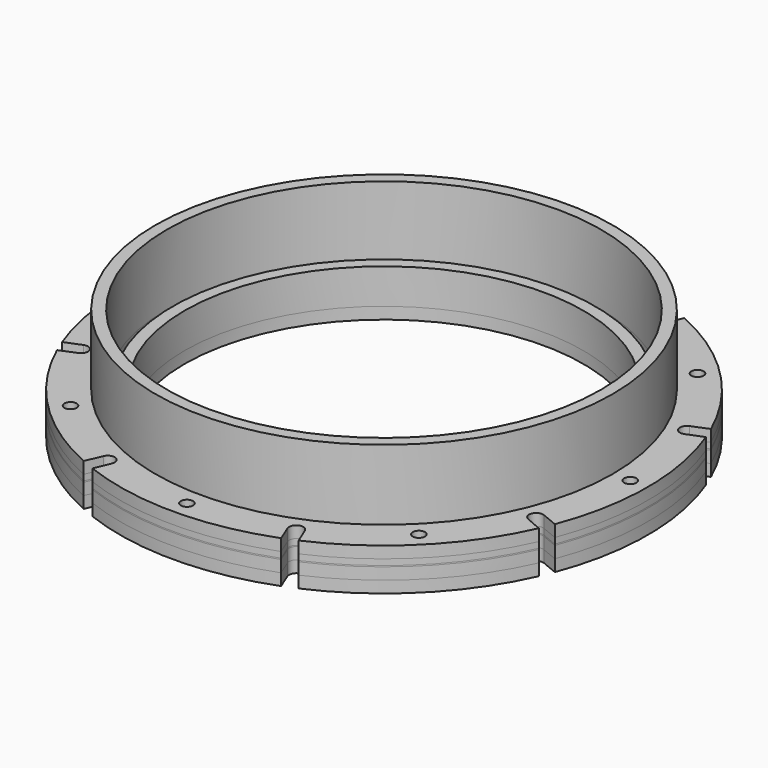
from build123d import *

# Parameters (mm, degrees)
F0_R      = 112.5
F0_R_2    = 92.5
F1_DEPTH  = 5
F2_R      = 97.5
F2_R_2    = 92.5
F3_DEPTH  = 30
F4_DEPTH  = 2.5
F5_DEPTH  = 0.5
F6_DEPTH  = 5
F7_R      = 112.5
F7_R_2    = 92.5
F7_R_3    = 85
F8_DEPTH  = 5
F10_D     = 5.2
F10_2_D   = 5.2
F10_3_D   = 5.2
F11_D     = 4.2
F13_DEPTH = 18.001
F14_R     = 90
F14_R_2   = 85
F15_DEPTH = 15


with BuildPart() as f1:
    # F0 (on Top) → F1 (new body)
    with BuildSketch(Plane.XY):
        Circle(F0_R)
        Circle(F0_R_2, mode=Mode.SUBTRACT)
    extrude(amount=F1_DEPTH)


with BuildPart() as f3:
    # F2 (on face) → F3 (new body)
    with BuildSketch(Plane.XY.offset(5)):
        Circle(F2_R)
        Circle(F2_R_2, mode=Mode.SUBTRACT)
    extrude(amount=F3_DEPTH)


with BuildPart() as f4:
    # F4 (new): a face of the model
    f4_faces = [f1.part.faces().sort_by_distance(p)[0] for p in [
        (-109.3180194847, 0, 0),
    ]]
    extrude(f4_faces, amount=F4_DEPTH)


with BuildPart() as f5:
    # F5 (new): a face of the model
    f5_faces = [f4.part.faces().sort_by_distance(p)[0] for p in [
        (-109.3180194847, 0, -2.5),
    ]]
    extrude(f5_faces, amount=F5_DEPTH)


with BuildPart() as f6:
    # F6 (new): a face of the model
    f6_faces = [f5.part.faces().sort_by_distance(p)[0] for p in [
        (-109.3180194847, 0, -3),
    ]]
    extrude(f6_faces, amount=F6_DEPTH)

    # F11 (through all)
    with Locations(Plane.XY.offset(5)):
        with Locations((-105, 0), (-74.2462120246, 74.2462120246), (0, 105), (74.2462120246, 74.2462120246), (105, 0), (74.2462120246, -74.2462120246), (0, -105), (-74.2462120246, -74.2462120246)):
            Hole(F11_D / 2)


with BuildPart() as f8:
    # F7 (on face) → F8 (new body)
    with BuildSketch(Plane(origin=(0, 0, -8), x_dir=(1, 0, 0), z_dir=(0, 0, -1))):
        Circle(F7_R)
        Circle(F7_R_2, mode=Mode.SUBTRACT)
        Circle(F7_R_2)
        Circle(F7_R_3, mode=Mode.SUBTRACT)
    extrude(amount=F8_DEPTH)


with BuildPart() as f1_1:
    add(f1.part)

    # F10 (through all)
    with Locations(Plane.XY.offset(5)):
        with Locations((0, -105), (-74.2462120246, -74.2462120246), (-105, 0), (-74.2462120246, 74.2462120246), (0, 105), (74.2462120246, 74.2462120246), (105, 0), (74.2462120246, -74.2462120246)):
            Hole(F10_D / 2)


with BuildPart() as f4_1:
    add(f4.part)

    # F10#2 (through all)
    with Locations(Plane.XY.offset(5)):
        with Locations((0, -105), (-74.2462120246, -74.2462120246), (-105, 0), (-74.2462120246, 74.2462120246), (0, 105), (74.2462120246, 74.2462120246), (105, 0), (74.2462120246, -74.2462120246)):
            Hole(F10_2_D / 2)


with BuildPart() as f5_1:
    add(f5.part)

    # F10#3 (through all)
    with Locations(Plane.XY.offset(5)):
        with Locations((0, -105), (-74.2462120246, -74.2462120246), (-105, 0), (-74.2462120246, 74.2462120246), (0, 105), (74.2462120246, 74.2462120246), (105, 0), (74.2462120246, -74.2462120246)):
            Hole(F10_3_D / 2)


with BuildPart() as f13_tool:
    # F12 (on face) → F13 (new body, through all)
    with BuildSketch(Plane.XY.offset(5)):
        with BuildLine():
            Line((-42.9367154426, 95.8198229334), (-42.9695168797, 95.8990126077))
            ThreePointArc((-42.9695168797, 95.8990126077), (-42.9533989959, 95.8593006166), (-42.9367154426, 95.8198229334))
        make_face()
        with BuildLine():
            Line((-48.6769560134, 109.6779895706), (-42.9695168797, 95.8990126077))
            Line((-42.9695168797, 95.8990126077), (-42.9367154426, 95.8198229334))
            ThreePointArc((-42.9367154426, 95.8198229334), (-39.0337101012, 94.2357123162), (-37.394003917, 98.1156892197))
            Line((-37.394003917, 98.1156892197), (-43.4671074378, 113.3911097392))
            Line((-43.4671074378, 113.3911097392), (-48.6769560134, 109.6779895706))
        make_face()
        with BuildLine():
            ThreePointArc((-98.1156892197, 37.394003917), (-94.2357123162, 39.0337101012), (-95.8198229334, 42.9367154426))
            Line((-95.8198229334, 42.9367154426), (-110.9155090507, 49.443736195))
            Line((-110.9155090507, 49.443736195), (-111.9738558568, 43.1342444877))
            Line((-111.9738558568, 43.1342444877), (-98.1948788939, 37.426805354))
            Line((-98.1948788939, 37.426805354), (-98.1156892197, 37.394003917))
        make_face()
        with BuildLine():
            ThreePointArc((-98.1948788939, 37.426805354), (-98.1554012108, 37.4101218008), (-98.1156892197, 37.394003917))
            Line((-98.1156892197, 37.394003917), (-98.1948788939, 37.426805354))
        make_face()
        with BuildLine():
            ThreePointArc((-95.8198229334, -42.9367154426), (-94.2357123162, -39.0337101012), (-98.1156892197, -37.394003917))
            Line((-98.1156892197, -37.394003917), (-113.3911097392, -43.4671074378))
            Line((-113.3911097392, -43.4671074378), (-109.6779895706, -48.6769560134))
            Line((-109.6779895706, -48.6769560134), (-95.8990126077, -42.9695168797))
            Line((-95.8990126077, -42.9695168797), (-95.8198229334, -42.9367154426))
        make_face()
        with BuildLine():
            ThreePointArc((-95.8990126077, -42.9695168797), (-95.8593006166, -42.9533989959), (-95.8198229334, -42.9367154426))
            Line((-95.8198229334, -42.9367154426), (-95.8990126077, -42.9695168797))
        make_face()
        with BuildLine():
            ThreePointArc((-37.394003917, -98.1156892197), (-39.0337101012, -94.2357123162), (-42.9367154426, -95.8198229334))
            Line((-42.9367154426, -95.8198229334), (-49.443736195, -110.9155090507))
            Line((-49.443736195, -110.9155090507), (-43.1342444877, -111.9738558568))
            Line((-43.1342444877, -111.9738558568), (-37.426805354, -98.1948788939))
            Line((-37.426805354, -98.1948788939), (-37.394003917, -98.1156892197))
        make_face()
        with BuildLine():
            ThreePointArc((-37.426805354, -98.1948788939), (-37.4101218008, -98.1554012108), (-37.394003917, -98.1156892197))
            Line((-37.394003917, -98.1156892197), (-37.426805354, -98.1948788939))
        make_face()
        with BuildLine():
            ThreePointArc((42.9367154426, -95.8198229334), (39.0337101012, -94.2357123162), (37.394003917, -98.1156892197))
            Line((37.394003917, -98.1156892197), (43.4671074378, -113.3911097392))
            Line((43.4671074378, -113.3911097392), (48.6769560134, -109.6779895706))
            Line((48.6769560134, -109.6779895706), (42.9695168797, -95.8990126077))
            Line((42.9695168797, -95.8990126077), (42.9367154426, -95.8198229334))
        make_face()
        with BuildLine():
            ThreePointArc((42.9695168797, -95.8990126077), (42.9533989959, -95.8593006166), (42.9367154426, -95.8198229334))
            Line((42.9367154426, -95.8198229334), (42.9695168797, -95.8990126077))
        make_face()
        with BuildLine():
            ThreePointArc((98.1156892197, -37.394003917), (94.2357123162, -39.0337101012), (95.8198229334, -42.9367154426))
            Line((95.8198229334, -42.9367154426), (110.9155090507, -49.443736195))
            Line((110.9155090507, -49.443736195), (111.9738558568, -43.1342444877))
            Line((111.9738558568, -43.1342444877), (98.1948788939, -37.426805354))
            Line((98.1948788939, -37.426805354), (98.1156892197, -37.394003917))
        make_face()
        with BuildLine():
            ThreePointArc((98.1948788939, -37.426805354), (98.1554012108, -37.4101218008), (98.1156892197, -37.394003917))
            Line((98.1156892197, -37.394003917), (98.1948788939, -37.426805354))
        make_face()
        with BuildLine():
            ThreePointArc((95.8198229334, 42.9367154426), (94.2357123162, 39.0337101012), (98.1156892197, 37.394003917))
            Line((98.1156892197, 37.394003917), (113.3911097392, 43.4671074378))
            Line((113.3911097392, 43.4671074378), (109.6779895706, 48.6769560134))
            Line((109.6779895706, 48.6769560134), (95.8990126077, 42.9695168797))
            Line((95.8990126077, 42.9695168797), (95.8198229334, 42.9367154426))
        make_face()
        with BuildLine():
            ThreePointArc((95.8990126077, 42.9695168797), (95.8593006166, 42.9533989959), (95.8198229334, 42.9367154426))
            Line((95.8198229334, 42.9367154426), (95.8990126077, 42.9695168797))
        make_face()
        with BuildLine():
            ThreePointArc((37.394003917, 98.1156892197), (39.0337101012, 94.2357123162), (42.9367154426, 95.8198229334))
            Line((42.9367154426, 95.8198229334), (49.443736195, 110.9155090507))
            Line((49.443736195, 110.9155090507), (43.1342444877, 111.9738558568))
            Line((43.1342444877, 111.9738558568), (37.426805354, 98.1948788939))
            Line((37.426805354, 98.1948788939), (37.394003917, 98.1156892197))
        make_face()
        with BuildLine():
            ThreePointArc((37.426805354, 98.1948788939), (37.4101218008, 98.1554012108), (37.394003917, 98.1156892197))
            Line((37.394003917, 98.1156892197), (37.426805354, 98.1948788939))
        make_face()
    extrude(amount=-F13_DEPTH)


with BuildPart() as f1_2:
    add(f1_1.part)

    # F13: cut by f13_tool
    add(f13_tool.part, mode=Mode.SUBTRACT)


with BuildPart() as f4_2:
    add(f4_1.part)

    # F13: cut by f13_tool
    add(f13_tool.part, mode=Mode.SUBTRACT)


with BuildPart() as f5_2:
    add(f5_1.part)

    # F13: cut by f13_tool
    add(f13_tool.part, mode=Mode.SUBTRACT)


with BuildPart() as f6_1:
    add(f6.part)

    # F13: cut by f13_tool
    add(f13_tool.part, mode=Mode.SUBTRACT)


with BuildPart() as f8_1:
    add(f8.part)

    # F13: cut by f13_tool
    add(f13_tool.part, mode=Mode.SUBTRACT)


with BuildPart() as f15:
    # F14 (on face) → F15 (new body)
    with BuildSketch(Plane(origin=(0, 0, -8), x_dir=(1, 0, 0), z_dir=(0, 0, -1))):
        Circle(F14_R)
        Circle(F14_R_2, mode=Mode.SUBTRACT)
    extrude(amount=-F15_DEPTH)


solid = Compound([f3.part, f1_2.part, f4_2.part, f5_2.part, f6_1.part, f8_1.part, f15.part])
